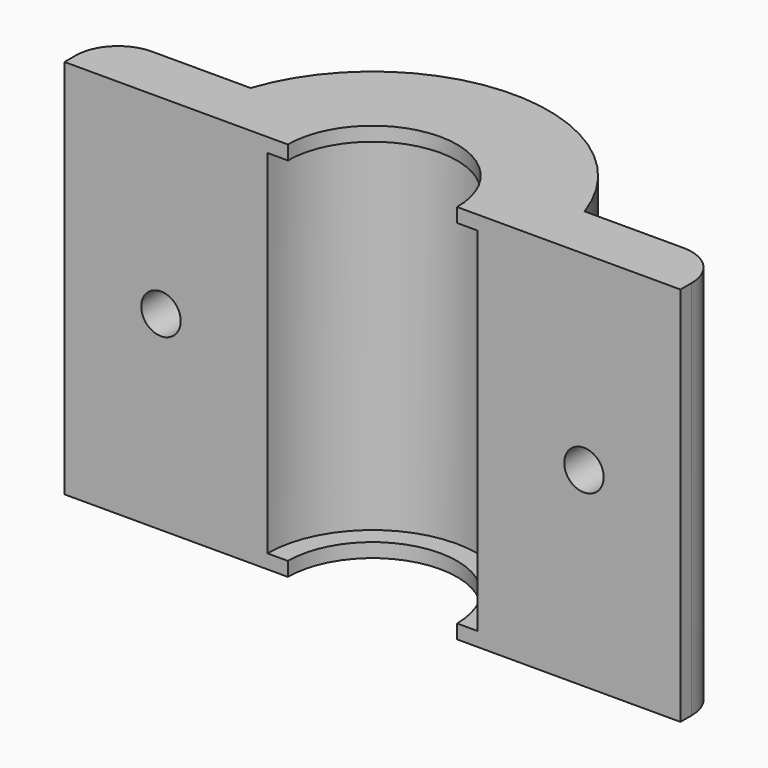
from build123d import *

# Parameters (mm, degrees)
SKETCH006_R  = 1.4
PAD004_DEPTH = 4
PAD_DEPTH    = 27
PAD001_DEPTH = 1
PAD003_DEPTH = 1
FILLET_R     = 3


with BuildPart() as mount:
    # Sketch006 → Pad004 (new body)
    with BuildSketch(Plane.XZ):
        with Locations((-15, 13.5)):
            Circle(SKETCH006_R)
        with Locations((15, 13.5)):
            Circle(SKETCH006_R)
    extrude(amount=-PAD004_DEPTH)


with BuildPart() as base:
    # Sketch → Pad (new body)
    with BuildSketch(Plane.XY):
        with BuildLine():
            ThreePointArc((7.45, 0), (0, 7.45), (-7.45, 0))
            Line((-7.45, 0), (-21.842719, 0))
            Line((-21.842719, 0), (-21.842719, 4))
            Line((-21.842719, 4), (-11.842719, 4))
            ThreePointArc((11.842719, 4), (0, 12.5), (-11.842719, 4))
            Line((21.842719, 4), (11.842719, 4))
            Line((21.842719, 0), (21.842719, 4))
            Line((7.45, 0), (21.842719, 0))
        make_face()
    extrude(amount=PAD_DEPTH)


with BuildPart() as bottomlip:
    # Sketch003 → Pad001 (new body)
    with BuildSketch(Plane.XY):
        with BuildLine():
            ThreePointArc((7.46, 0), (0, 7.46), (-7.46, 0))
            Line((-7.46, 0), (-6, 0))
            ThreePointArc((6, 0), (0, 6), (-6, 0))
            Line((7.46, 0), (6, 0))
        make_face()
    extrude(amount=PAD001_DEPTH)


with BuildPart() as fillet_body:
    # Sketch005 → Pad003 (new body)
    with BuildSketch(Plane.XY.offset(26)):
        with BuildLine():
            ThreePointArc((7.46, 0), (0, 7.46), (-7.46, 0))
            Line((-7.46, 0), (-6, 0))
            ThreePointArc((6, 0), (0, 6), (-6, 0))
            Line((7.46, 0), (6, 0))
        make_face()
    extrude(amount=PAD003_DEPTH)

    # Fusion: union Base, BottomLip
    add(base.part)
    add(bottomlip.part)

    # Cut: cut Mount
    add(mount.part, mode=Mode.SUBTRACT)

    # Fillet
    fillet_edges = [fillet_body.edges().sort_by_distance(p)[0] for p in [
        (21.842719, 4, 13.5),
        (-21.842719, 4, 13.5),
    ]]
    fillet(fillet_edges, radius=FILLET_R)


solid = fillet_body.part
